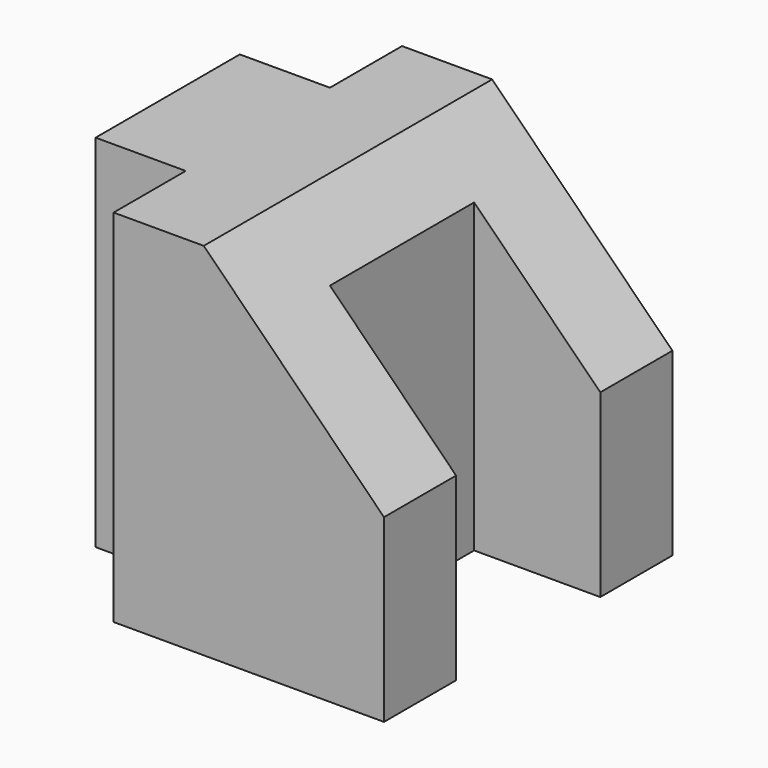
from build123d import *

# Parameters (mm, degrees)
F1_DEPTH = 50.8
F3_DEPTH = 50.801


with BuildPart() as f1:
    # F0 (on Top) → F1 (new body)
    with BuildSketch(Plane.XY):
        Polygon((-20.32, -25.4), (17.78, -25.4), (17.78, -12.7), (0, -12.7), (0, 12.7), (17.78, 12.7), (17.78, 25.4), (-20.32, 25.4), (-20.32, 12.7), (-33.02, 12.7), (-33.02, 0), (-33.02, -12.7), (-20.32, -12.7), align=None)
    extrude(amount=F1_DEPTH)

    # F2 (on face) → F3 (cut, through all)
    with BuildSketch(Plane.XZ.offset(25.4)):
        Polygon((17.78, 50.8), (-7.62, 50.8), (17.78, 25.4), align=None)
    extrude(amount=-F3_DEPTH, mode=Mode.SUBTRACT)


solid = f1.part
